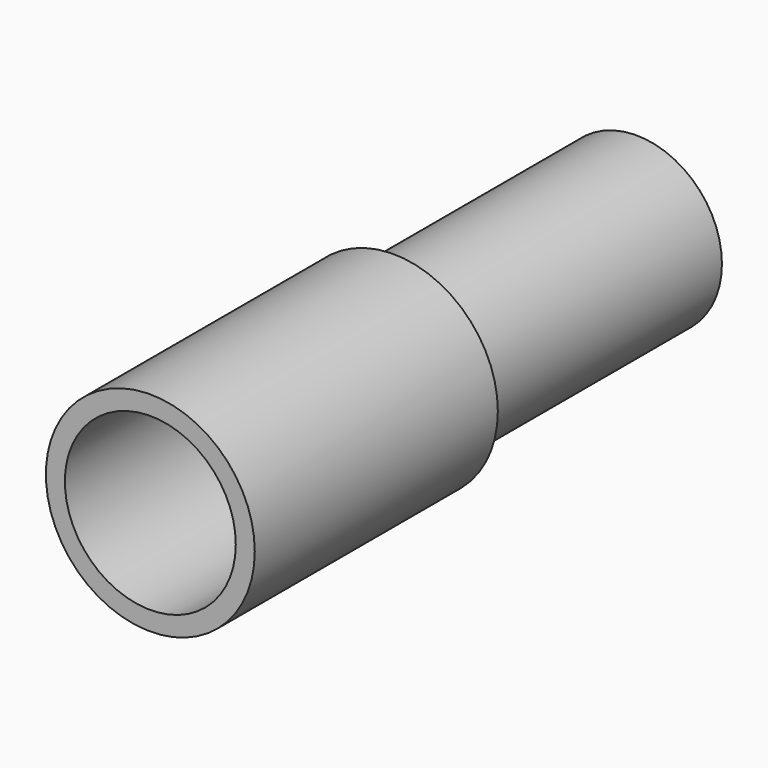
from build123d import *

# Parameters (mm, degrees)
F0_R     = 69.85
F0_R_2   = 57.15
F1_DEPTH = 203.2
F2_R     = 57.15
F3_DEPTH = 12.7
F4_DEPTH = 203.2


with BuildPart() as f1:
    # F0 (on Front) → F1 (new body)
    with BuildSketch(Plane.XZ):
        Circle(F0_R)
        Circle(F0_R_2, mode=Mode.SUBTRACT)
    extrude(amount=F1_DEPTH)

    # F2 (on Front) → F3 (join)
    with BuildSketch(Plane.XZ):
        Circle(F2_R)
    extrude(amount=F3_DEPTH)

    # F2 (on Front) → F4 (join)
    with BuildSketch(Plane.XZ):
        Circle(F2_R)
    extrude(amount=-F4_DEPTH)


solid = f1.part
